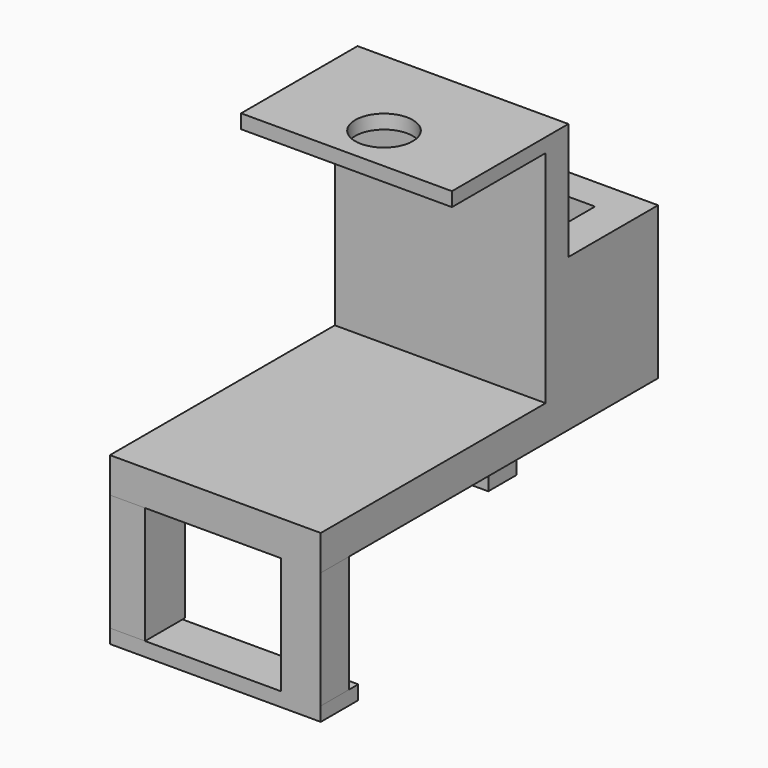
from build123d import *

# Parameters (mm, degrees)
F0_W      = 45
F0_H      = 90
F1_DEPTH  = 7.5
F2_W      = 45
F2_H      = 30
F2_W_2    = 28.085665
F2_H_2    = 17
F3_DEPTH  = 25
F5_DEPTH  = 25
F6_W      = 45
F6_H      = 3
F7_DEPTH  = 25
F8_R      = 6.14005
F9_DEPTH  = 3
F10_W     = 8.500325
F10_H     = 7.5
F11_DEPTH = 25
F12_W     = 7.5
F12_H     = 10.662651
F13_DEPTH = 25
F14_W     = 10
F14_H     = 7.5
F15_DEPTH = 28
F16_W     = 45
F16_H     = 10
F17_DEPTH = 3


with BuildPart() as f1:
    # F0 (on Top) → F1 (new body)
    with BuildSketch(Plane.XY):
        Rectangle(F0_W, F0_H)
    extrude(amount=F1_DEPTH)

    # F2 (on face) → F3 (join)
    with BuildSketch(Plane.XY.offset(7.5)):
        with Locations((0, 30)):
            Rectangle(F2_W, F2_H)
        with Locations((0.5507, 29.56425)):
            Rectangle(F2_W_2, F2_H_2, mode=Mode.SUBTRACT)
    extrude(amount=F3_DEPTH)

    # F4 (on face) → F5 (join)
    with BuildSketch(Plane.XY.offset(32.5)):
        Polygon((-22.5, 15), (22.5, 15), (22.5, 21.06425), (14.593532, 21.06425), (-13.492133, 21.06425), (-22.5, 21.06425), align=None)
    extrude(amount=F5_DEPTH)

    # F6 (on face) → F7 (join)
    with BuildSketch(Plane.XZ.offset(-15)):
        with Locations((0, 56)):
            Rectangle(F6_W, F6_H)
    extrude(amount=F7_DEPTH)

    # F8 (on face) → F9 (cut, through all)
    with BuildSketch(Plane.XY.offset(57.5)):
        Circle(F8_R)
    extrude(amount=-F9_DEPTH, mode=Mode.SUBTRACT)

    # F10 (on face) → F11 (join)
    with BuildSketch(Plane(origin=(0, 0, 0), x_dir=(1, 0, 0), z_dir=(0, 0, -1))):
        with Locations((18.249837, 41.25)):
            Rectangle(F10_W, F10_H)
    extrude(amount=F11_DEPTH)

    # F12 (on face) → F13 (join)
    with BuildSketch(Plane(origin=(0, 0, 0), x_dir=(1, 0, 0), z_dir=(0, 0, -1))):
        with Locations((-18.75, 39.668674)):
            Rectangle(F12_W, F12_H)
    extrude(amount=F13_DEPTH)

    # F14 (on Top) → F15 (join)
    with BuildSketch(Plane.XY):
        with Locations((-12.690873, 41.181121)):
            Rectangle(F14_W, F14_H)
    extrude(amount=-F15_DEPTH)

    # F16 (on face) → F17 (join)
    with BuildSketch(Plane(origin=(0, 0, -25), x_dir=(1, 0, 0), z_dir=(0, 0, -1))):
        with Locations((0, 40)):
            Rectangle(F16_W, F16_H)
    extrude(amount=F17_DEPTH)


solid = f1.part
